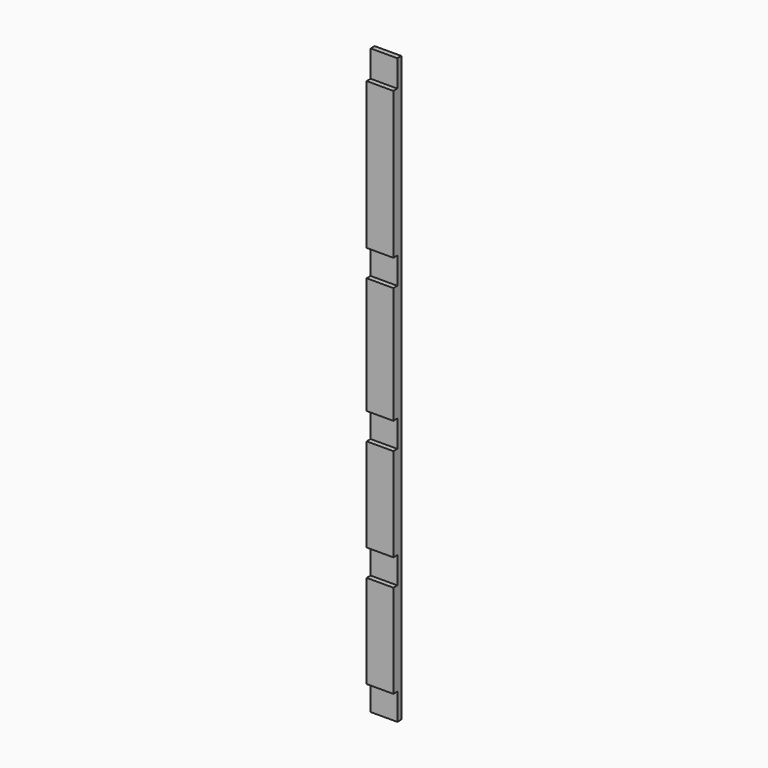
from build123d import *

# Parameters (mm, degrees)
F0_W     = 50.8
F0_H     = 19.05
F1_DEPTH = 1111.25
F2_W     = 122.435573
F2_H     = 50.8
F2_W_2   = 93.867282
F2_W_3   = 343.160421
F2_W_4   = 167.492665
F2_W_5   = 184.03516
F3_DEPTH = 25.4


with BuildPart() as f1:
    # F0 (on Top) → F1 (new body)
    with BuildSketch(Plane.XY):
        Rectangle(F0_W, F0_H)
    extrude(amount=F1_DEPTH)

    # F2 (on Front) → F3 (cut)
    with BuildSketch(Plane.XZ):
        with Locations((22.446524, 25.4)):
            Rectangle(F2_W, F2_H)
        with Locations((2.720783, 755.65)):
            Rectangle(F2_W_2, F2_H)
        with Locations((-38.781822, 1085.85)):
            Rectangle(F2_W_3, F2_H)
        with Locations((-16.54249, 254)):
            Rectangle(F2_W_4, F2_H)
        with Locations((-28.949361, 482.6)):
            Rectangle(F2_W_5, F2_H)
    extrude(amount=F3_DEPTH, mode=Mode.SUBTRACT)


solid = f1.part
